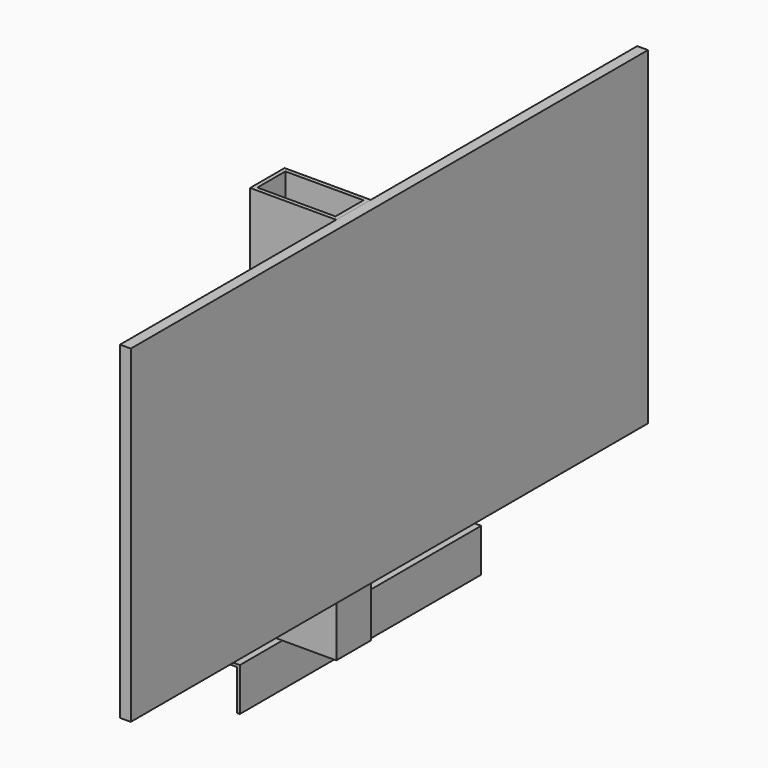
from build123d import *

# Parameters (mm, degrees)
F0_W     = 34.925
F0_H     = 3.175
F0_W_2   = 3.175
F0_H_2   = 47.625
F1_DEPTH = 355.6
F2_W     = 101.6
F2_H     = 50.8
F2_W_2   = 92.075
F2_H_2   = 41.275
F3_DEPTH = 457.2
F4_W     = 762
F4_H     = 387.35
F5_DEPTH = 12.7


with BuildPart() as f1:
    # F0 (on Front) → F1 (new body)
    with BuildSketch(Plane.XZ):
        with Locations((-17.4625, 25.473452)):
            Rectangle(F0_W, F0_H)
        with Locations((1.5875, 25.473452)):
            Rectangle(F0_W_2, F0_H)
        with Locations((1.5875, 0.073452)):
            Rectangle(F0_W_2, F0_H_2)
    extrude(amount=F1_DEPTH)


with BuildPart() as f3:
    # F2 (on face) → F3 (new body)
    with BuildSketch(Plane.XY.offset(27.060952)):
        with Locations((15.875, -267.47824)):
            Rectangle(F2_W, F2_H)
        with Locations((15.875, -267.47824)):
            Rectangle(F2_W_2, F2_H_2, mode=Mode.SUBTRACT)
    extrude(amount=F3_DEPTH)


with BuildPart() as f5:
    # F4 (on face) → F5 (new body)
    with BuildSketch(Plane.YZ.offset(66.675)):
        with Locations((-230.520756, 290.585952)):
            Rectangle(F4_W, F4_H)
    extrude(amount=F5_DEPTH)


solid = Compound([f1.part, f3.part, f5.part])
